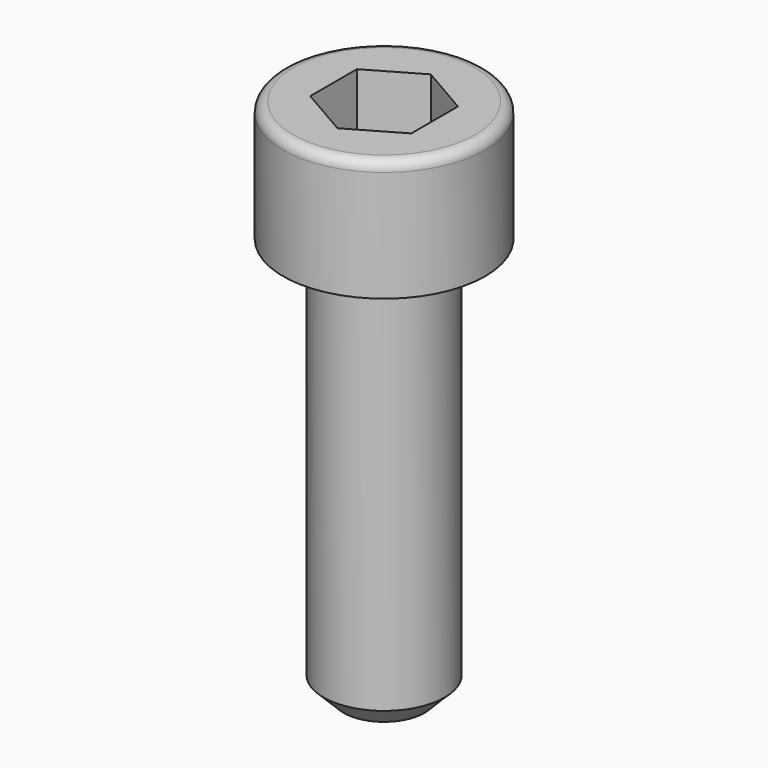
from build123d import *

# Parameters (mm, degrees)
F0_R     = 5
F1_DEPTH = 6
F2_R     = 0.5
F4_DEPTH = 3
F5_R     = 3
F6_DEPTH = 20
F7_SIZE  = 1


with BuildPart() as f1:
    # F0 (on Top) → F1 (new body)
    with BuildSketch(Plane.XY):
        Circle(F0_R)
    extrude(amount=F1_DEPTH)

    # F2
    f2_edges = [f1.edges().sort_by_distance(p)[0] for p in [
        (-5, 0, 6),
    ]]
    fillet(f2_edges, radius=F2_R)

    # F3 (on face) → F4 (cut)
    with BuildSketch(Plane.XY.offset(6)):
        Polygon((2.5, 1.443376), (0, 2.886751), (-2.5, 1.443376), (-2.5, -1.443376), (0, -2.886751), (2.5, -1.443376), align=None)
    extrude(amount=-F4_DEPTH, mode=Mode.SUBTRACT)

    # F5 (on face) → F6 (join)
    with BuildSketch(Plane(origin=(0, 0, 0), x_dir=(1, 0, 0), z_dir=(0, 0, -1))):
        Circle(F5_R)
    extrude(amount=F6_DEPTH)

    # F7
    f7_edges = [f1.edges().sort_by_distance(p)[0] for p in [
        (-3, 0, -20),
    ]]
    chamfer(f7_edges, length=F7_SIZE)


solid = f1.part
